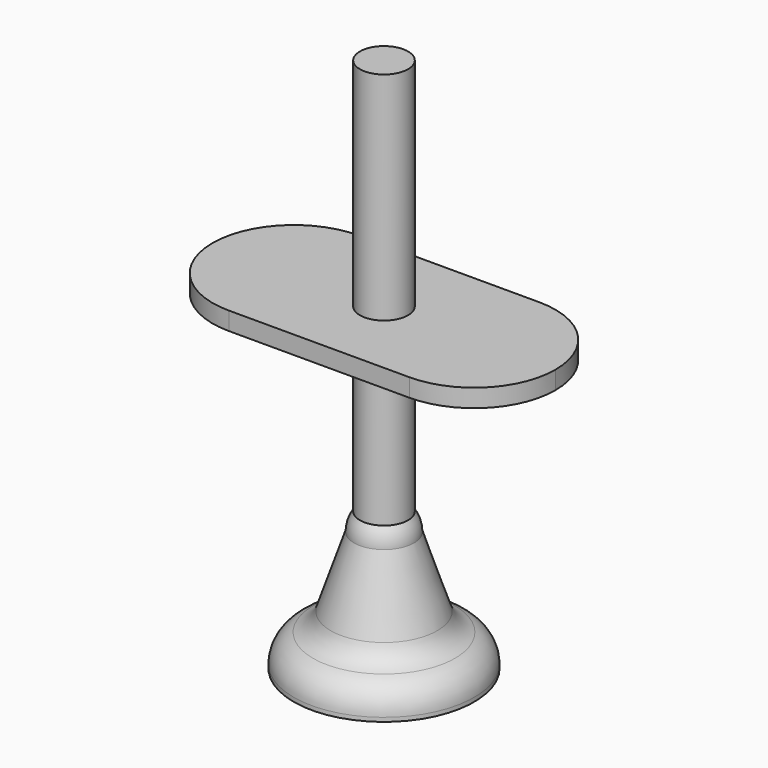
from build123d import *

# Parameters (mm, degrees)
F5_R     = 4
F6_DEPTH = 3


with BuildPart() as f1:
    # F0 (on Front) → F1 (revolve)
    with BuildSketch(Plane.XZ):
        with BuildLine():
            Line((-15, 0), (0, 0))
            Line((0, 0), (0, 15))
            ThreePointArc((0, 15), (-3.535534, 16.464466), (-5, 20))
            Line((-5, 20), (-8.86038, 8.418861))
            ThreePointArc((-8.86038, 8.418861), (-9.986292, 6.548383), (-11.801898, 5.335971))
            ThreePointArc((-11.801898, 5.335971), (-14.123681, 3.499531), (-15, 0.671943))
            Line((-15, 0.671943), (-15, 0))
        make_face()
    revolve(axis=Axis((0, 0, 10), (0, 0, 1)))


with BuildPart() as f3:
    # F2 (on Front) → F3 (revolve)
    with BuildSketch(Plane.XZ):
        with BuildLine():
            Line((-4, 89), (-4, 23))
            ThreePointArc((-4, 23), (-4.472136, 17.763932), (0, 15))
            Line((0, 15), (0, 25))
            Line((0, 25), (0, 89))
            Line((0, 89), (-4, 89))
        make_face()
    revolve(axis=Axis((0, 0, 20), (0, 0, -1)))


with BuildPart() as f6:
    # F5 (on offset) → F6 (new body)
    with BuildSketch(Plane.XY.offset(50)):
        with BuildLine():
            Line((15, 13.5), (-15, 13.5))
            ThreePointArc((-15, 13.5), (-24.545942, 9.545942), (-28.5, 0))
            ThreePointArc((-28.5, 0), (-24.545942, -9.545942), (-15, -13.5))
            Line((-15, -13.5), (15, -13.5))
            ThreePointArc((15, -13.5), (24.545942, -9.545942), (28.5, 0))
            ThreePointArc((28.5, 0), (24.545942, 9.545942), (15, 13.5))
        make_face()
        Circle(F5_R, mode=Mode.SUBTRACT)
    extrude(amount=F6_DEPTH)


solid = Compound([f1.part, f3.part, f6.part])
